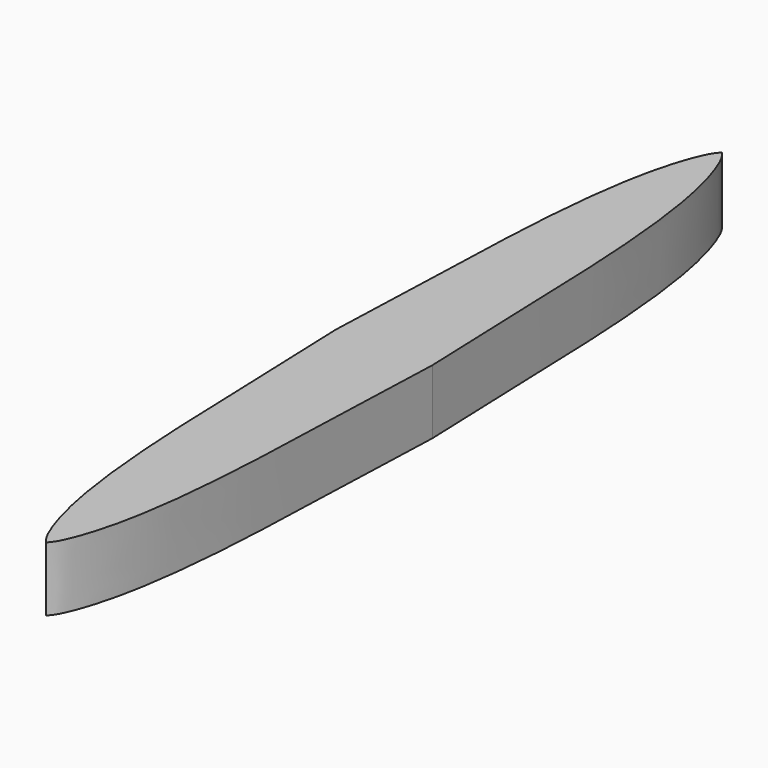
from build123d import *

# Parameters (mm, degrees)
F1_DEPTH = 406.4


with BuildPart() as f1:
    # F0 (on Top) → F1 (new body)
    with BuildSketch(Plane.XY):
        with BuildLine():
            add(Edge.make_bspline(
                [(-3593.6890046341, 0), (-3580.8139220982, -14.9737394294), (-3539.2854082194, -63.2714605493), (-3415.8362069547, -418.0397903805), (-3340.0685127676, -1122.9468498751), (-3321.1743770526, -1819.5927069898), (-3299.96030066, -2376.4071930225), (-3288.8890046341, -2667)],
                knots=[0, 0, 0, 0, 0.0763475938, 0.2462587793, 0.4915744688, 0.7346606348, 1, 1, 1, 1], degree=3))
            add(Edge.make_bspline(
                [(-3593.6890046341, 0), (-3606.5640871699, -14.9737394294), (-3648.0926010487, -63.2714605493), (-3771.5418023134, -418.0397903805), (-3847.3094965006, -1122.9468498751), (-3866.2036322155, -1819.5927069898), (-3887.4177086082, -2376.4071930225), (-3898.4890046341, -2667)],
                knots=[0, 0, 0, 0, 0.0763475938, 0.2462587793, 0.4915744688, 0.7346606348, 1, 1, 1, 1], degree=3))
            add(Edge.make_bspline(
                [(-3593.6890046341, -5334), (-3606.5640871699, -5319.0262605706), (-3648.0926010487, -5270.7285394507), (-3771.5418023134, -4915.9602096195), (-3847.3094965006, -4211.0531501249), (-3866.2036322155, -3514.4072930102), (-3887.4177086082, -2957.5928069775), (-3898.4890046341, -2667)],
                knots=[0, 0, 0, 0, 0.0763475938, 0.2462587793, 0.4915744688, 0.7346606348, 1, 1, 1, 1], degree=3))
            add(Edge.make_bspline(
                [(-3593.6890046341, -5334), (-3580.8139220982, -5319.0262605706), (-3539.2854082194, -5270.7285394507), (-3415.8362069547, -4915.9602096195), (-3340.0685127676, -4211.0531501249), (-3321.1743770526, -3514.4072930102), (-3299.96030066, -2957.5928069775), (-3288.8890046341, -2667)],
                knots=[0, 0, 0, 0, 0.0763475938, 0.2462587793, 0.4915744688, 0.7346606348, 1, 1, 1, 1], degree=3))
        make_face()
    extrude(amount=F1_DEPTH)


solid = f1.part
